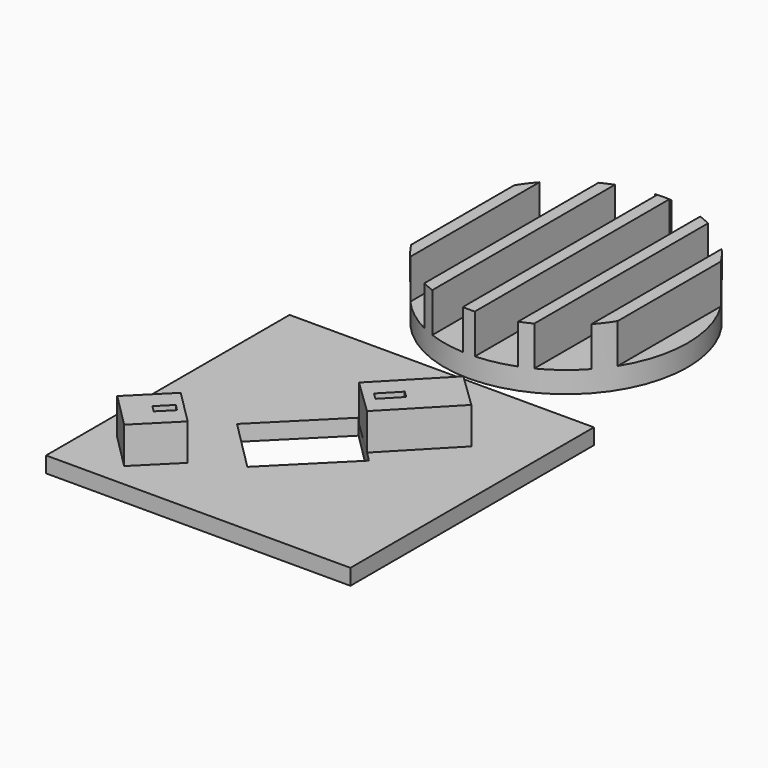
from build123d import *

# Parameters (mm, degrees)
SKETCH006_AS_DRAWN_W                      = 1.464365
SKETCH006_AS_DRAWN_H                      = 3.015419
EXTRUDE003_DEPTH                          = 4.5
EXTRUDE003_DEPTH_BACK                     = 2
EXTRUDE003_ONTO_SKETCH006_PLACEMENT_ANGLE = 135
BOX003_W                                  = 8
BOX003_H                                  = 8.2
BOX003_DEPTH                              = 6
BOX003_PLACEMENT_ANGLE                    = 135
BOX005_W                                  = 15.7
BOX005_H                                  = 12
BOX005_DEPTH                              = 2.6
BOX005_PLACEMENT_ANGLE                    = 45
BOX_W                                     = 50
BOX_H                                     = 50
BOX_DEPTH                                 = 2.6
SKETCH005_AS_DRAWN_W                      = 1.499127
SKETCH005_AS_DRAWN_H                      = 3.983619
EXTRUDE002_DEPTH                          = 4.5
EXTRUDE002_DEPTH_BACK                     = 1
EXTRUDE002_ONTO_SKETCH005_PLACEMENT_ANGLE = 136
BOX004_W                                  = 8
BOX004_H                                  = 13.5
BOX004_DEPTH                              = 6
BOX004_PLACEMENT_ANGLE                    = 136
SKETCH002_R                               = 2.45
EXTRUDE001_DEPTH                          = 6
SKETCH001_W                               = 6.088268
SKETCH001_H                               = 40.072169
SKETCH001_W_2                             = 5.82251
SKETCH001_H_2                             = 40.037997
SKETCH001_W_3                             = 5.991463
SKETCH001_H_3                             = 40.081202
SKETCH001_W_4                             = 6.008479
SKETCH001_H_4                             = 40.030346
SKETCH001_W_5                             = 4.054681
SKETCH001_H_5                             = 40.167569
EXTRUDE_DEPTH                             = 6.5
CYLINDER001_R                             = 20
CYLINDER001_DEPTH                         = 10
CUT001_PLACEMENT_ANGLE                    = 180


with BuildPart() as extrude003:
    # Sketch006 as drawn → Extrude003 (new, two sides)
    with BuildSketch(Plane.XY) as extrude003_sk:
        with Locations((3.985229, 2.511082)):
            Rectangle(SKETCH006_AS_DRAWN_W, SKETCH006_AS_DRAWN_H)
    extrude(amount=EXTRUDE003_DEPTH)
    extrude(extrude003_sk.sketch, amount=-EXTRUDE003_DEPTH_BACK)


with BuildPart() as extrude003_1:
    # Extrude003 onto Sketch006 placement: moved
    add(extrude003.part.moved(Location((15.55, 9.66, 14.79))).rotate(Axis((15.55, 9.66, 14.79), (0, 0, 1)), EXTRUDE003_ONTO_SKETCH006_PLACEMENT_ANGLE))


with BuildPart() as extrude003_2:
    # Extrude003 placement: moved
    add(extrude003_1.part.moved(Location((0, 0, -4.5))))


with BuildPart() as cut004:
    # Box003 → Box003 (new body)
    with BuildSketch(Plane.XY):
        with Locations((4, 4.1)):
            Rectangle(BOX003_W, BOX003_H)
    extrude(amount=BOX003_DEPTH)


with BuildPart() as cut004_1:
    # Box003 placement: moved
    add(cut004.part.moved(Location((15.55, 9.66, 8.79))).rotate(Axis((15.55, 9.66, 8.79), (0, 0, 1)), BOX003_PLACEMENT_ANGLE))

    # Cut004: cut Extrude003
    add(extrude003_2.part, mode=Mode.SUBTRACT)


with BuildPart() as cut004_2:
    # Cut004 placement: moved
    add(cut004_1.part.moved(Location((-0.08085, 0.07824, -6.2))))


with BuildPart() as cube005:
    # Box005 → Box005 (new body)
    with BuildSketch(Plane.XY):
        with Locations((7.85, 6)):
            Rectangle(BOX005_W, BOX005_H)
    extrude(amount=BOX005_DEPTH)


with BuildPart() as cube005_1:
    # Box005 placement: moved
    add(cube005.part.moved(Location((22.146447, 13.646447, 0))).rotate(Axis((22.146447, 13.646447, 0), (0, 0, 1)), BOX005_PLACEMENT_ANGLE))


with BuildPart() as cut:
    # Box → Box (new body)
    with BuildSketch(Plane.XY):
        with Locations((25, 25)):
            Rectangle(BOX_W, BOX_H)
    extrude(amount=BOX_DEPTH)

    # Cut: cut Cube005
    add(cube005_1.part, mode=Mode.SUBTRACT)


with BuildPart() as extrude002:
    # Sketch005 as drawn → Extrude002 (new, two sides)
    with BuildSketch(Plane.XY) as extrude002_sk:
        with Locations((4.002213, 9.994158)):
            Rectangle(SKETCH005_AS_DRAWN_W, SKETCH005_AS_DRAWN_H)
    extrude(amount=EXTRUDE002_DEPTH)
    extrude(extrude002_sk.sketch, amount=-EXTRUDE002_DEPTH_BACK)


with BuildPart() as extrude002_1:
    # Extrude002 onto Sketch005 placement: moved
    add(extrude002.part.moved(Location((47.02, 42.01, 14.32))).rotate(Axis((47.02, 42.01, 14.32), (0, 0, 1)), EXTRUDE002_ONTO_SKETCH005_PLACEMENT_ANGLE))


with BuildPart() as extrude002_2:
    # Extrude002 placement: moved
    add(extrude002_1.part.moved(Location((0, 0, -4.5))))


with BuildPart() as fusion:
    # Box004 → Box004 (new body)
    with BuildSketch(Plane.XY):
        with Locations((4, 6.75)):
            Rectangle(BOX004_W, BOX004_H)
    extrude(amount=BOX004_DEPTH)


with BuildPart() as fusion_1:
    # Box004 placement: moved
    add(fusion.part.moved(Location((47.02, 42.01, 8.32))).rotate(Axis((47.02, 42.01, 8.32), (0, 0, 1)), BOX004_PLACEMENT_ANGLE))

    # Cut003: cut Extrude002
    add(extrude002_2.part, mode=Mode.SUBTRACT)


with BuildPart() as fusion_2:
    # Cut003 placement: moved
    add(fusion_1.part.moved(Location((-5.96, -6, -5.7))))

    # Fusion: union Cut004, Cut
    add(cut004_2.part)
    add(cut.part)


with BuildPart() as extrude001:
    # Sketch002 → Extrude001 (new body)
    with BuildSketch(Plane.XY):
        with Locations((25.84182, 74.524612)):
            Circle(SKETCH002_R)
    extrude(amount=EXTRUDE001_DEPTH)


with BuildPart() as extrude001_1:
    # Extrude001 placement: moved
    add(extrude001.part.moved(Location((0, 0, -2.75))))


with BuildPart() as extrude_body:
    # Sketch001 (on Cylinder) → Extrude (new body)
    with BuildSketch(Plane(origin=(25.88, -24.43, 1.58), x_dir=(1, 0, 0), z_dir=(0, 0, 1))):
        with Locations((4.04194, 0.082084)):
            Rectangle(SKETCH001_W, SKETCH001_H)
        with Locations((11.963658, 0.064998)):
            Rectangle(SKETCH001_W_2, SKETCH001_H_2)
        with Locations((-3.979312, 0.086601)):
            Rectangle(SKETCH001_W_3, SKETCH001_H_3)
        with Locations((-11.967384, 0.061173)):
            Rectangle(SKETCH001_W_4, SKETCH001_H_4)
        with Locations((18.991761, 0.072897)):
            Rectangle(SKETCH001_W_5, SKETCH001_H_5)
        Polygon((-16.965232, 20.07192), (-16.965232, -19.971802), (-20.883258, -19.971802), (-20.883258, 19.991599), align=None)
    extrude(amount=EXTRUDE_DEPTH)


with BuildPart() as cut005:
    # Cylinder001 → Cylinder001 (new body)
    with BuildSketch(Plane(origin=(25.88, -24.43, 1.58), x_dir=(1, 0, 0), z_dir=(0, 0, 1))):
        Circle(CYLINDER001_R)
    extrude(amount=CYLINDER001_DEPTH)

    # Cut001: cut Extrude body
    add(extrude_body.part, mode=Mode.SUBTRACT)


with BuildPart() as cut005_1:
    # Cut001 placement: moved
    add(cut005.part.moved(Location((0, 50, 12))).rotate(Axis((0, 50, 12), (1, 0, 0)), CUT001_PLACEMENT_ANGLE))

    # Cut005: cut Extrude001
    add(extrude001_1.part, mode=Mode.SUBTRACT)


with BuildPart() as cut005_2:
    # Cut005 placement: moved
    add(cut005_1.part.moved(Location((0, 0, -0.4))))


solid = Compound([fusion_2.part, cut005_2.part])
